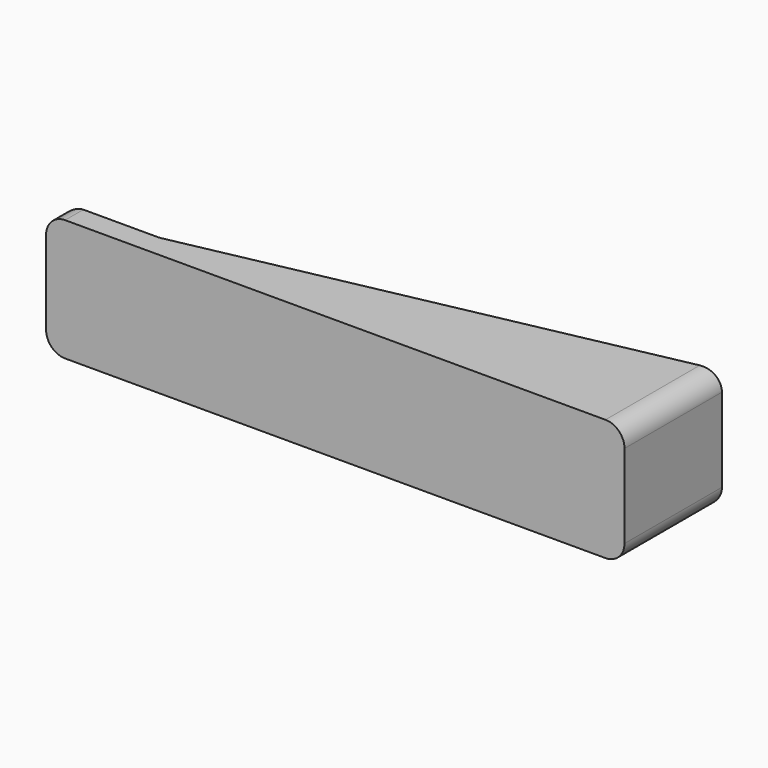
from build123d import *

# Parameters (mm, degrees)
F0_W     = 127
F0_H     = 32
F1_DEPTH = 32
F3_DEPTH = 32
F4_DEPTH = 25
F5_R     = 5


with BuildPart() as f1:
    # F0 (on Top) → F1 (new body)
    with BuildSketch(Plane.XY):
        Rectangle(F0_W, F0_H)
    extrude(amount=F1_DEPTH)

    # F2 (on face) → F3 (cut, through all)
    with BuildSketch(Plane.XY.offset(32)):
        Polygon((-63.5, 16), (-63.5, -10), (63.5, 16), align=None)
    extrude(amount=-F3_DEPTH, mode=Mode.SUBTRACT)

    # F4 (add): a face of the model
    f4_faces = [f1.faces().sort_by_distance(p)[0] for p in [
        (-63.5, -13, 16),
    ]]
    extrude(f4_faces, amount=F4_DEPTH)

    # F5
    f5_edges = [f1.edges().sort_by_distance(p)[0] for p in [
        (63.5, 0, 32),
        (63.5, 0, 0),
        (-63.5, -10, 16),
        (-88.5, -10, 16),
        (-88.5, -13, 32),
        (-88.5, -13, 0),
    ]]
    fillet(f5_edges, radius=F5_R)


solid = f1.part
